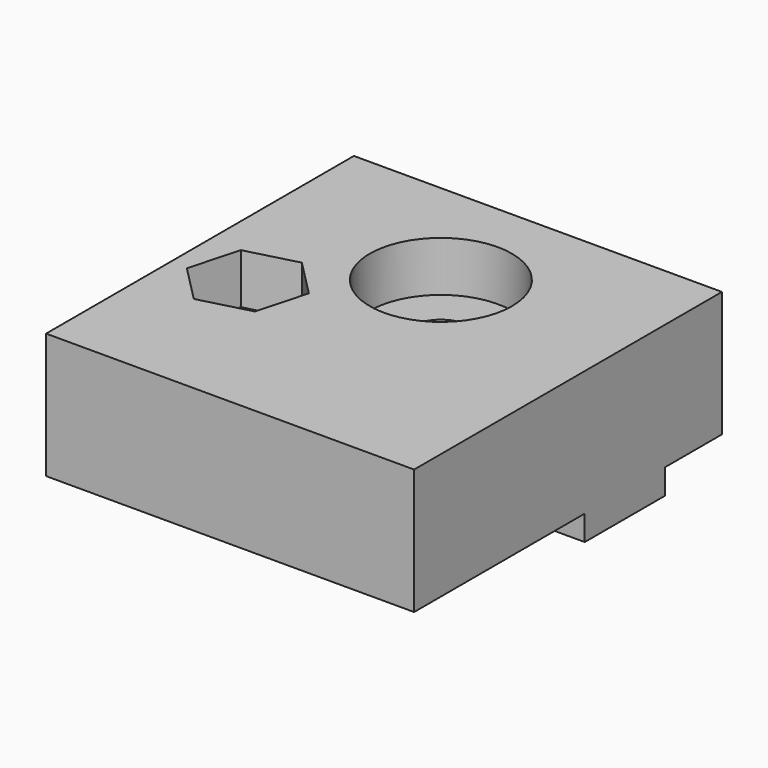
from build123d import *

# Parameters (mm, degrees)
F0_W     = 22
F0_H     = 23
F1_DEPTH = 4.5
F2_R     = 1.75
F3_DEPTH = 4.501
F4_W     = 22
F4_H     = 6
F4_R     = 1.75
F5_DEPTH = 1.5
F2_W     = 22
F2_H     = 23
F2_R_2   = 4.25
F2_R_3   = 1.5
F6_DEPTH = 3
F7_R     = 1.5
F8_DEPTH = 3
F9_DEPTH = 9.001


with BuildPart() as f1:
    # F0 (on Top) → F1 (new body)
    with BuildSketch(Plane.XY):
        with Locations((1.9347620532, -2.93618536)):
            Rectangle(F0_W, F0_H)
    extrude(amount=F1_DEPTH)

    # F2 (on face) → F3 (cut, through all)
    with BuildSketch(Plane.XY.offset(4.5)):
        with Locations((1.9347620532, 1.31381464)):
            Circle(F2_R)
    extrude(amount=-F3_DEPTH, mode=Mode.SUBTRACT)

    # F4 (on face) → F5 (join)
    with BuildSketch(Plane(origin=(0, 0, 0), x_dir=(1, 0, 0), z_dir=(0, 0, -1))):
        with Locations((1.9347620532, -1.31381464)):
            Rectangle(F4_W, F4_H)
        with Locations((1.9347620532, -1.31381464)):
            Circle(F4_R, mode=Mode.SUBTRACT)
    extrude(amount=F5_DEPTH)

    # F2 (on face) → F6 (join)
    with BuildSketch(Plane.XY.offset(4.5)):
        with Locations((1.9347620532, -2.93618536)):
            Rectangle(F2_W, F2_H)
        Polygon((-5.8697039075, -7.3919604017), (-8.0607315208, -5.1739888063), (-7.235425581, -2.1675174351), (-4.2190920279, -1.3790176593), (-2.0280644146, -3.5969892546), (-2.8533703544, -6.6034606258), align=None, mode=Mode.SUBTRACT)
        with Locations((1.9347620532, 1.31381464)):
            Circle(F2_R_2, mode=Mode.SUBTRACT)
        Polygon((-7.235425581, -2.1675174351), (-8.0607315208, -5.1739888063), (-5.8697039075, -7.3919604017), (-2.8533703544, -6.6034606258), (-2.0280644146, -3.5969892546), (-4.2190920279, -1.3790176593), align=None)
        with Locations((-5.0443979677, -4.3854890305)):
            Circle(F2_R_3, mode=Mode.SUBTRACT)
        with Locations((-5.0443979677, -4.3854890305)):
            Circle(F2_R_3)
    extrude(amount=F6_DEPTH)

    # F7 (on face) → F8 (cut)
    with BuildSketch(Plane.XY.offset(7.5)):
        Polygon((-2.0280644146, -3.5969892546), (-4.2190920279, -1.3790176593), (-7.235425581, -2.1675174351), (-8.0607315208, -5.1739888063), (-5.8697039075, -7.3919604017), (-2.8533703544, -6.6034606258), align=None)
        with Locations((-5.0443979677, -4.3854890305)):
            Circle(F7_R, mode=Mode.SUBTRACT)
    extrude(amount=-F8_DEPTH, mode=Mode.SUBTRACT)

    # F9 (cut, through all): a face of the model
    f9_faces = [f1.faces().sort_by_distance(p)[0] for p in [
        (-5.0443979677, -4.3854890305, 7.5),
    ]]
    extrude(f9_faces, amount=-F9_DEPTH, mode=Mode.SUBTRACT)


solid = f1.part
